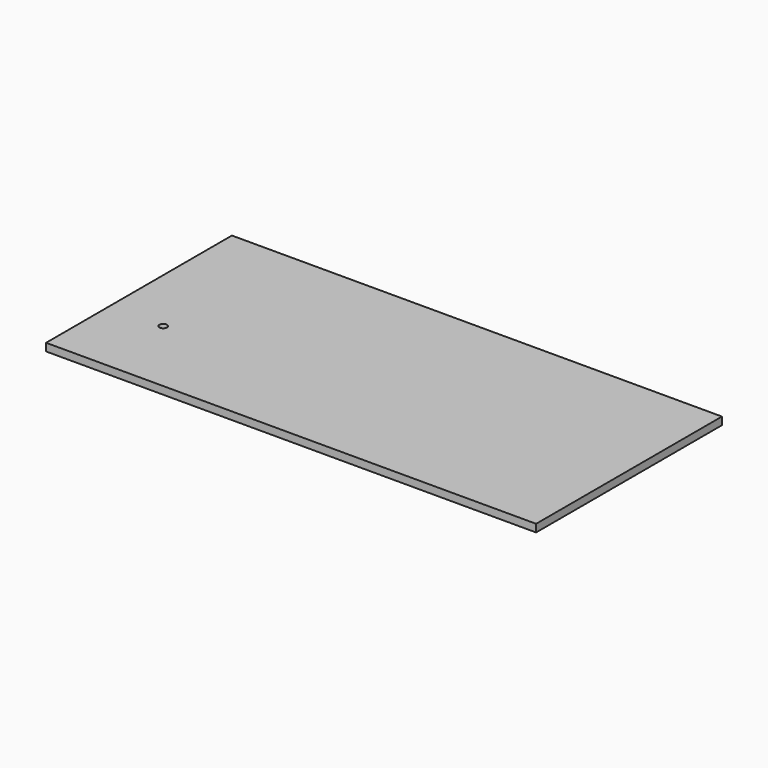
from build123d import *

# Parameters (mm, degrees)
F1_W     = 1625.6
F1_H     = 770.4836
F2_DEPTH = 25.4
F4_R     = 12.5
F5_DEPTH = 25.4
F5_TAPER = 2


with BuildPart() as f2:
    # F1 (on Top) → F2 (new body)
    with BuildSketch(Plane.XY):
        with Locations((-223.2636412111, -32.7259012833)):
            Rectangle(F1_W, F1_H)
    extrude(amount=-F2_DEPTH)

    # F4 (on face) → F5 (cut)
    with BuildSketch(Plane.XY):
        with Locations((-857.5752973557, -155.3505063057)):
            Circle(F4_R)
    extrude(amount=-F5_DEPTH, taper=F5_TAPER, mode=Mode.SUBTRACT)


solid = f2.part
